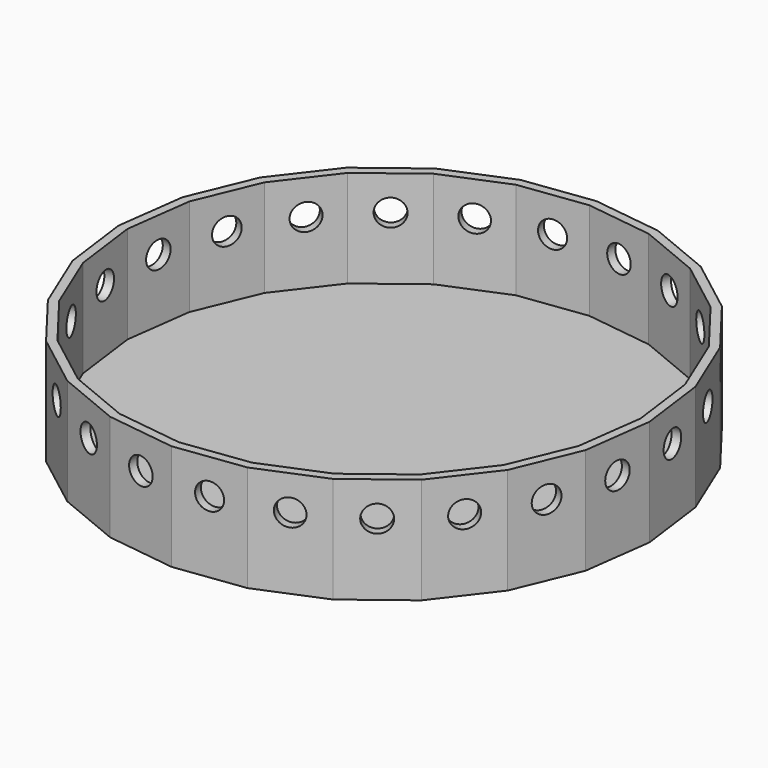
from build123d import *

# Parameters (mm, degrees)
F1_DEPTH     = 152.4
F2_DEPTH     = 12.7
F15_D        = 38.1
F15_ON_F13_D = 38.1
F15_ON_F12_D = 38.1
F15_ON_F11_D = 38.1
F15_ON_F10_D = 38.1
F15_ON_F9_D  = 38.1
F15_ON_F8_D  = 38.1
F15_ON_F7_D  = 38.1
F15_ON_F6_D  = 38.1
F15_ON_F5_D  = 38.1
F15_ON_F4_D  = 38.1
F15_ON_F3_D  = 38.1


with BuildPart() as f1:
    # F0 (on Top) → F1 (new body)
    with BuildSketch(Plane.XY):
        Polygon((98.6100561841, 368.0177398161), (0, 381), (-98.6100561841, 368.0177398161), (-190.5, 329.9556788419), (-269.4076836321, 269.4076836321), (-329.9556788419, 190.5), (-368.0177398161, 98.6100561841), (-381, 0), (-368.0177398161, -98.6100561841), (-329.9556788419, -190.5), (-269.4076836321, -269.4076836321), (-190.5, -329.9556788419), (-98.6100561841, -368.0177398161), (0, -381), (98.6100561841, -368.0177398161), (190.5, -329.9556788419), (269.4076836321, -269.4076836321), (329.9556788419, -190.5), (368.0177398161, -98.6100561841), (381, 0), (368.0177398161, 98.6100561841), (329.9556788419, 190.5), (269.4076836321, 269.4076836321), (190.5, 329.9556788419), align=None)
        Polygon((-95.2946909017, 355.6446281366), (0, 368.1904122006), (95.2946909017, 355.6446281366), (184.0952061003, 318.8622503956), (260.3499372349, 260.3499372349), (318.8622503956, 184.0952061003), (355.6446281366, 95.2946909017), (368.1904122006, 0), (355.6446281366, -95.2946909017), (318.8622503956, -184.0952061003), (260.3499372349, -260.3499372349), (184.0952061003, -318.8622503956), (95.2946909017, -355.6446281366), (0, -368.1904122006), (-95.2946909017, -355.6446281366), (-184.0952061003, -318.8622503956), (-260.3499372349, -260.3499372349), (-318.8622503956, -184.0952061003), (-355.6446281366, -95.2946909017), (-368.1904122006, 0), (-355.6446281366, 95.2946909017), (-318.8622503956, 184.0952061003), (-260.3499372349, 260.3499372349), (-184.0952061003, 318.8622503956), align=None, mode=Mode.SUBTRACT)
    extrude(amount=F1_DEPTH)

    # F0 (on Top) → F2 (join)
    with BuildSketch(Plane.XY):
        Polygon((95.2946909017, 355.6446281366), (0, 368.1904122006), (-95.2946909017, 355.6446281366), (-184.0952061003, 318.8622503956), (-260.3499372349, 260.3499372349), (-318.8622503956, 184.0952061003), (-355.6446281366, 95.2946909017), (-368.1904122006, 0), (-355.6446281366, -95.2946909017), (-318.8622503956, -184.0952061003), (-260.3499372349, -260.3499372349), (-184.0952061003, -318.8622503956), (-95.2946909017, -355.6446281366), (0, -368.1904122006), (95.2946909017, -355.6446281366), (184.0952061003, -318.8622503956), (260.3499372349, -260.3499372349), (318.8622503956, -184.0952061003), (355.6446281366, -95.2946909017), (368.1904122006, 0), (355.6446281366, 95.2946909017), (318.8622503956, 184.0952061003), (260.3499372349, 260.3499372349), (184.0952061003, 318.8622503956), align=None)
    extrude(amount=F2_DEPTH)

    # F15 (through all)
    with Locations(Plane(origin=(49.305028092, 374.5088699081, 0), x_dir=(-0.9914448614, 0.1305261922, 0), z_dir=(0.1305261922, 0.9914448614, 0))):
        with Locations((0, 102.6695207642)):
            Hole(F15_D / 2)

    # F15 on F13 (through all)
    with Locations(Plane(origin=(144.555028092, 348.986709329, 0), x_dir=(-0.9238795325, 0.3826834324, 0), z_dir=(0.3826834324, 0.9238795325, 0))):
        with Locations((0, 102.6695207642)):
            Hole(F15_ON_F13_D / 2)

    # F15 on F12 (through all)
    with Locations(Plane(origin=(229.953841816, 299.681681237, 0), x_dir=(-0.7933533403, 0.608761429, 0), z_dir=(0.608761429, 0.7933533403, 0))):
        with Locations((0, 102.6695207642)):
            Hole(F15_ON_F12_D / 2)

    # F15 on F11 (through all)
    with Locations(Plane(origin=(299.681681237, 229.953841816, 0), x_dir=(-0.608761429, 0.7933533403, 0), z_dir=(0.7933533403, 0.608761429, 0))):
        with Locations((0, 102.6695207642)):
            Hole(F15_ON_F11_D / 2)

    # F15 on F10 (through all)
    with Locations(Plane(origin=(348.986709329, 144.555028092, 0), x_dir=(-0.3826834324, 0.9238795325, 0), z_dir=(0.9238795325, 0.3826834324, 0))):
        with Locations((0, 102.6695207642)):
            Hole(F15_ON_F10_D / 2)

    # F15 on F9 (through all)
    with Locations(Plane(origin=(374.5088699081, 49.305028092, 0), x_dir=(-0.1305261922, 0.9914448614, 0), z_dir=(0.9914448614, 0.1305261922, 0))):
        with Locations((0, 102.6695207642)):
            Hole(F15_ON_F9_D / 2)

    # F15 on F8 (through all)
    with Locations(Plane(origin=(374.5088699081, -49.305028092, 0), x_dir=(0.1305261922, 0.9914448614, 0), z_dir=(0.9914448614, -0.1305261922, 0))):
        with Locations((0, 102.6695207642)):
            Hole(F15_ON_F8_D / 2)

    # F15 on F7 (through all)
    with Locations(Plane(origin=(348.986709329, -144.555028092, 0), x_dir=(0.3826834324, 0.9238795325, 0), z_dir=(0.9238795325, -0.3826834324, 0))):
        with Locations((0, 102.6695207642)):
            Hole(F15_ON_F7_D / 2)

    # F15 on F6 (through all)
    with Locations(Plane(origin=(299.681681237, -229.953841816, 0), x_dir=(0.608761429, 0.7933533403, 0), z_dir=(0.7933533403, -0.608761429, 0))):
        with Locations((0, 102.6695207642)):
            Hole(F15_ON_F6_D / 2)

    # F15 on F5 (through all)
    with Locations(Plane(origin=(229.953841816, -299.681681237, 0), x_dir=(0.7933533403, 0.608761429, 0), z_dir=(0.608761429, -0.7933533403, 0))):
        with Locations((0, 102.6695207642)):
            Hole(F15_ON_F5_D / 2)

    # F15 on F4 (through all)
    with Locations(Plane(origin=(144.555028092, -348.986709329, 0), x_dir=(0.9238795325, 0.3826834324, 0), z_dir=(0.3826834324, -0.9238795325, 0))):
        with Locations((0, 102.6695207642)):
            Hole(F15_ON_F4_D / 2)

    # F15 on F3 (through all)
    with Locations(Plane(origin=(49.305028092, -374.5088699081, 0), x_dir=(0.9914448614, 0.1305261922, 0), z_dir=(0.1305261922, -0.9914448614, 0))):
        with Locations((0, 102.6695207642)):
            Hole(F15_ON_F3_D / 2)


solid = f1.part
